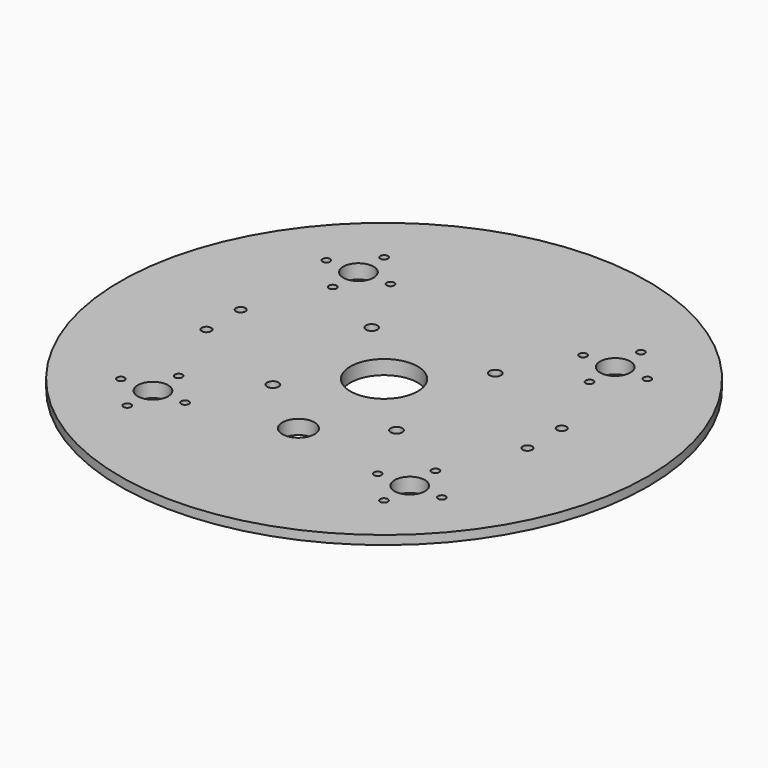
from build123d import *

# Parameters (mm, degrees)
F0_R     = 234.95
F0_R_2   = 13.49375
F0_R_3   = 14.2875
F0_R_4   = 30
F1_DEPTH = 12.7
F2_D     = 6.8
F3_D     = 8.4
F4_D     = 10.3
F5_R     = 295.3741287218
F5_R_2   = 212.725
F6_DEPTH = 4.7625


with BuildPart() as f1:
    # F0 (on Top) → F1 (new body)
    with BuildSketch(Plane.XY):
        Circle(F0_R)
        with Locations((-114.3, -114.3)):
            Circle(F0_R_2, mode=Mode.SUBTRACT)
        with Locations((0, -95.25)):
            Circle(F0_R_3, mode=Mode.SUBTRACT)
        with Locations((114.3, -114.3)):
            Circle(F0_R_2, mode=Mode.SUBTRACT)
        with Locations((-114.3, 114.3)):
            Circle(F0_R_2, mode=Mode.SUBTRACT)
        Circle(F0_R_4, mode=Mode.SUBTRACT)
        with Locations((114.3, 114.3)):
            Circle(F0_R_2, mode=Mode.SUBTRACT)
    extrude(amount=F1_DEPTH)

    # F2 (through all)
    with Locations(Plane(origin=(0, 0, 0), x_dir=(1, 0, 0), z_dir=(0, 0, -1))):
        with Locations((-114.3, 85.725), (-85.725, 114.3), (-142.875, 114.3), (-114.3, 142.875), (-142.875, -114.3), (-114.3, -142.875), (-85.725, -114.3), (-114.3, -85.725), (114.3, -142.875), (142.875, -114.3), (85.725, -114.3), (114.3, -85.725), (85.725, 114.3), (114.3, 85.725), (142.875, 114.3), (114.3, 142.875)):
            Hole(F2_D / 2)

    # F3 (through all)
    with Locations(Plane(origin=(0, 0, 0), x_dir=(1, 0, 0), z_dir=(0, 0, -1))):
        with Locations((-142.875, 19.05), (-142.875, -19.05), (142.875, -19.05), (142.875, 19.05)):
            Hole(F3_D / 2)

    # F4 (through all)
    with Locations(Plane(origin=(0, 0, 0), x_dir=(1, 0, 0), z_dir=(0, 0, -1))):
        with Locations((-55, 55), (-55, -55), (55, -55), (55, 55)):
            Hole(F4_D / 2)

    # F5 (on face) → F6 (cut)
    with BuildSketch(Plane.XY):
        Circle(F5_R)
        Circle(F5_R_2, mode=Mode.SUBTRACT)
    extrude(amount=F6_DEPTH, mode=Mode.SUBTRACT)


solid = f1.part
